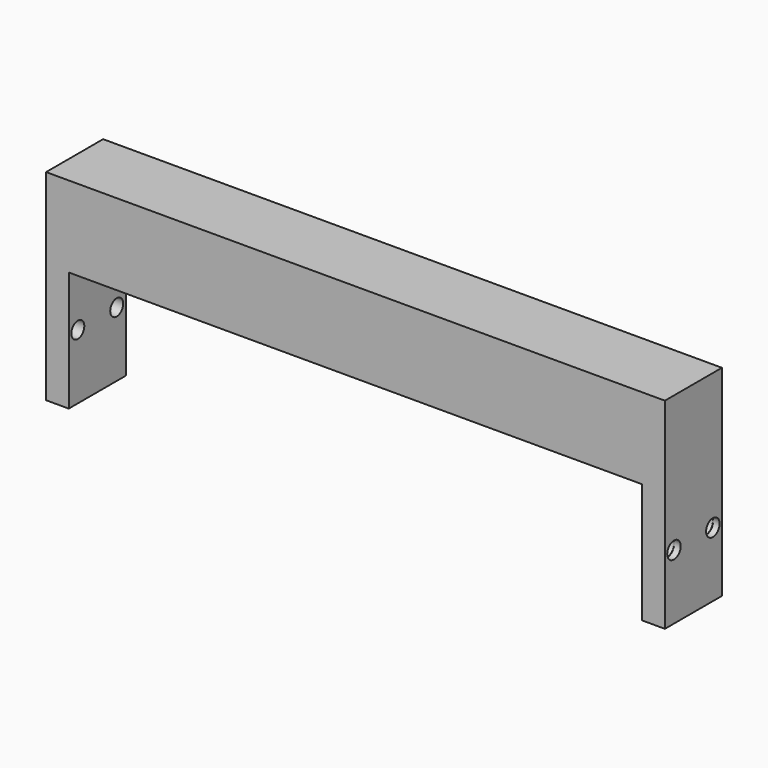
from build123d import *

# Parameters (mm, degrees)
CYLINDER145_R             = 2.6
CYLINDER145_DEPTH         = 2
CYLINDER144_R             = 2.5
CYLINDER144_DEPTH         = 5
FUSION066_PLACEMENT_ANGLE = 90
CYLINDER153_R             = 2.6
CYLINDER153_DEPTH         = 2
CYLINDER152_R             = 2.5
CYLINDER152_DEPTH         = 5
FUSION070_PLACEMENT_ANGLE = 90
CYLINDER148_R             = 2.6
CYLINDER148_DEPTH         = 2
CYLINDER147_R             = 2.5
CYLINDER147_DEPTH         = 5
FUSION071_PLACEMENT_ANGLE = 90
CYLINDER139_R             = 2.6
CYLINDER139_DEPTH         = 2
CYLINDER138_R             = 2.5
CYLINDER138_DEPTH         = 5
FUSION064_PLACEMENT_ANGLE = 270
BOX037_W                  = 177
BOX037_H                  = 7
BOX037_DEPTH              = 18
BOX033_W                  = 7
BOX033_H                  = 22
BOX033_DEPTH              = 55
BOX034_W                  = 191
BOX034_H                  = 22
BOX034_DEPTH              = 7
BOX032_W                  = 7
BOX032_H                  = 22
BOX032_DEPTH              = 55


with BuildPart() as cilindro145:
    # Cylinder145 → Cylinder145 (new body)
    with BuildSketch(Plane.XY.offset(5)):
        Circle(CYLINDER145_R)
    extrude(amount=CYLINDER145_DEPTH)


with BuildPart() as obj1:
    # Cylinder144 → Cylinder144 (new body)
    with BuildSketch(Plane.XY):
        Circle(CYLINDER144_R)
    extrude(amount=CYLINDER144_DEPTH)

    # Fusion066: union Cilindro145
    add(cilindro145.part)


with BuildPart() as obj1_1:
    # Fusion066 placement: moved
    add(obj1.part.moved(Location((88.5, 29.5, 30))).rotate(Axis((88.5, 29.5, 30), (0, 1, 0)), FUSION066_PLACEMENT_ANGLE))


with BuildPart() as cilindro153:
    # Cylinder153 → Cylinder153 (new body)
    with BuildSketch(Plane.XY.offset(5)):
        Circle(CYLINDER153_R)
    extrude(amount=CYLINDER153_DEPTH)


with BuildPart() as obj2:
    # Cylinder152 → Cylinder152 (new body)
    with BuildSketch(Plane.XY):
        Circle(CYLINDER152_R)
    extrude(amount=CYLINDER152_DEPTH)

    # Fusion070: union Cilindro153
    add(cilindro153.part)


with BuildPart() as obj2_1:
    # Fusion070 placement: moved
    add(obj2.part.moved(Location((88.5, 44.5, 30))).rotate(Axis((88.5, 44.5, 30), (0, 1, 0)), FUSION070_PLACEMENT_ANGLE))


with BuildPart() as cilindro148:
    # Cylinder148 → Cylinder148 (new body)
    with BuildSketch(Plane.XY.offset(5)):
        Circle(CYLINDER148_R)
    extrude(amount=CYLINDER148_DEPTH)


with BuildPart() as obj3:
    # Cylinder147 → Cylinder147 (new body)
    with BuildSketch(Plane.XY):
        Circle(CYLINDER147_R)
    extrude(amount=CYLINDER147_DEPTH)

    # Fusion071: union Cilindro148
    add(cilindro148.part)


with BuildPart() as obj3_1:
    # Fusion071 placement: moved
    add(obj3.part.moved(Location((-88.5, 44.5, 30))).rotate(Axis((-88.5, 44.5, 30), (0, -1, 0)), FUSION071_PLACEMENT_ANGLE))


with BuildPart() as cilindro139:
    # Cylinder139 → Cylinder139 (new body)
    with BuildSketch(Plane.XY.offset(5)):
        Circle(CYLINDER139_R)
    extrude(amount=CYLINDER139_DEPTH)


with BuildPart() as fusion074:
    # Cylinder138 → Cylinder138 (new body)
    with BuildSketch(Plane.XY):
        Circle(CYLINDER138_R)
    extrude(amount=CYLINDER138_DEPTH)

    # Fusion064: union Cilindro139
    add(cilindro139.part)


with BuildPart() as fusion074_1:
    # Fusion064 placement: moved
    add(fusion074.part.moved(Location((-88.5, 29.5, 30))).rotate(Axis((-88.5, 29.5, 30), (0, 1, 0)), FUSION064_PLACEMENT_ANGLE))

    # Fusion074: union obj1, obj2, obj3
    add(obj1_1.part)
    add(obj2_1.part)
    add(obj3_1.part)


with BuildPart() as cubo034:
    # Box037 → Box037 (new body)
    with BuildSketch(Plane(origin=(-88.5, 26, 47), x_dir=(1, 0, 0), z_dir=(0, 0, 1))):
        with Locations((88.5, 3.5)):
            Rectangle(BOX037_W, BOX037_H)
    extrude(amount=BOX037_DEPTH)


with BuildPart() as cubo030:
    # Box033 → Box033 (new body)
    with BuildSketch(Plane(origin=(88.5, 26, 10), x_dir=(1, 0, 0), z_dir=(0, 0, 1))):
        with Locations((3.5, 11)):
            Rectangle(BOX033_W, BOX033_H)
    extrude(amount=BOX033_DEPTH)


with BuildPart() as cubo031:
    # Box034 → Box034 (new body)
    with BuildSketch(Plane(origin=(-95.5, 26, 65), x_dir=(1, 0, 0), z_dir=(0, 0, 1))):
        with Locations((95.5, 11)):
            Rectangle(BOX034_W, BOX034_H)
    extrude(amount=BOX034_DEPTH)


with BuildPart() as obj4:
    # Box032 → Box032 (new body)
    with BuildSketch(Plane(origin=(-95.5, 26, 10), x_dir=(1, 0, 0), z_dir=(0, 0, 1))):
        with Locations((3.5, 11)):
            Rectangle(BOX032_W, BOX032_H)
    extrude(amount=BOX032_DEPTH)

    # Fusion058: union Cubo034, Cubo030, Cubo031
    add(cubo034.part)
    add(cubo030.part)
    add(cubo031.part)

    # Cut058: cut Fusion074
    add(fusion074_1.part, mode=Mode.SUBTRACT)


solid = obj4.part
